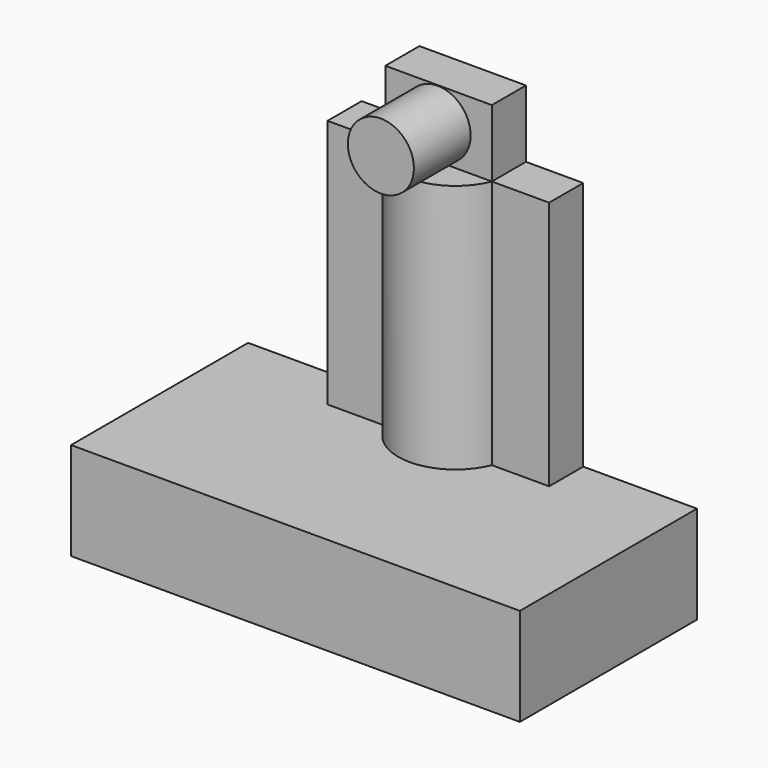
from build123d import *

# Parameters (mm, degrees)
F0_W     = 15.8174857497
F0_H     = 3.4455414861
F1_DEPTH = 7.8
F3_DEPTH = 8.8
F4_W     = 3.7536188029
F4_H     = 1.5020088758
F5_DEPTH = 2.37
F6_R     = 1.163766632
F7_DEPTH = 2.5


with BuildPart() as f1:
    # F0 (on Front) → F1 (new body)
    with BuildSketch(Plane.XZ):
        with Locations((7.9087428749, 1.7227707431)):
            Rectangle(F0_W, F0_H)
    extrude(amount=F1_DEPTH)

    # F2 (on face) → F3 (join)
    with BuildSketch(Plane.XY.offset(3.4455414861)):
        Polygon((11.810105294, -1.5020088758), (11.810105294, 0), (4.0005231276, 0), (4.0005231276, -1.5020088758), (6.037354935, -1.5020088758), (9.7909737378, -1.5020088758), align=None)
        with BuildLine():
            ThreePointArc((6.037354935, -1.5020088758), (7.9141643364, -2.7745180875), (9.7909737378, -1.5020088758))
            Line((9.7909737378, -1.5020088758), (6.037354935, -1.5020088758))
        make_face()
    extrude(amount=F3_DEPTH)

    # F4 (on face) → F5 (join)
    with BuildSketch(Plane.XY.offset(12.2455414861)):
        with Locations((7.9141643364, -0.7510044379)):
            Rectangle(F4_W, F4_H)
    extrude(amount=F5_DEPTH)

    # F6 (on face) → F7 (join)
    with BuildSketch(Plane.XZ.offset(1.5020088758)):
        with Locations((7.8803384677, 13.4305414861)):
            Circle(F6_R)
    extrude(amount=F7_DEPTH)


solid = f1.part
